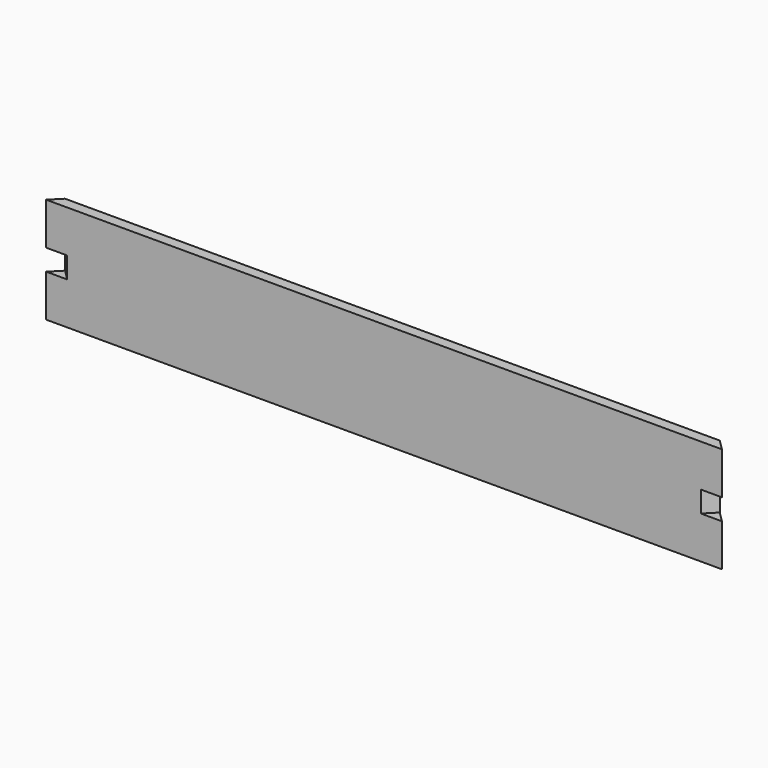
from build123d import *

# Parameters (mm, degrees)
F0_W     = 320
F0_H     = 50
F1_DEPTH = 2.5
F3_DEPTH = 50
F5_DEPTH = 60
F6_W     = 7.071068
F6_H     = 5
F7_DEPTH = 25
F8_W     = 7.071068
F8_H     = 5
F9_DEPTH = 25


with BuildPart() as f1:
    # F0 (on Front) → F1 (new body, symmetric)
    with BuildSketch(Plane.XZ):
        Rectangle(F0_W, F0_H)
    extrude(amount=F1_DEPTH, both=True)

    # F2 (on face) → F3 (cut)
    with BuildSketch(Plane.XY.offset(25)):
        Polygon((155, 2.5), (160, -2.5), (160, 2.5), align=None)
    extrude(amount=-F3_DEPTH, mode=Mode.SUBTRACT)

    # F4 (on face) → F5 (cut)
    with BuildSketch(Plane.XY.offset(25)):
        Polygon((-155, 2.5), (-160, 2.5), (-160, -2.5), align=None)
    extrude(amount=-F5_DEPTH, mode=Mode.SUBTRACT)

    # F6 (on face) → F7 (cut)
    with BuildSketch(Plane(origin=(78.75, 78.75, 0), x_dir=(-0.707107, 0.707107, 0), z_dir=(0.707107, 0.707107, 0))):
        with Locations((-111.369318, -2.5)):
            Rectangle(F6_W, F6_H)
        with Locations((-111.369318, 2.5)):
            Rectangle(F6_W, F6_H)
    extrude(amount=-F7_DEPTH, mode=Mode.SUBTRACT)

    # F8 (on face) → F9 (cut)
    with BuildSketch(Plane(origin=(-78.75, 78.75, 0), x_dir=(-0.707107, -0.707107, 0), z_dir=(-0.707107, 0.707107, 0))):
        with Locations((111.369318, -2.5)):
            Rectangle(F8_W, F8_H)
        with Locations((111.369318, 2.5)):
            Rectangle(F8_W, F8_H)
    extrude(amount=-F9_DEPTH, mode=Mode.SUBTRACT)


solid = f1.part
